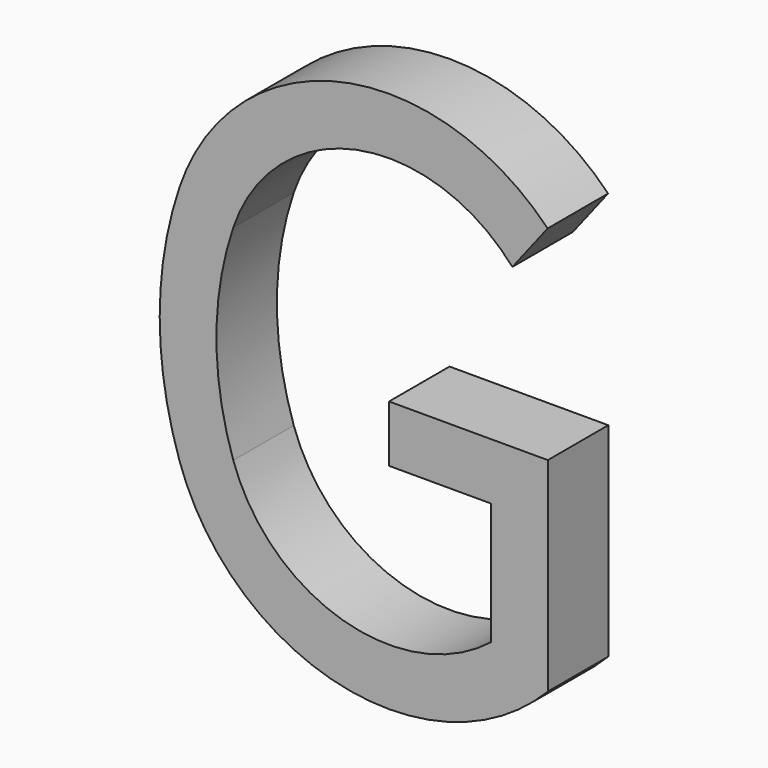
from build123d import *

# Parameters (mm, degrees)
F1_DEPTH = 1.524
F3_DEPTH = 1.524
F4_DEPTH = 25.4


with BuildPart() as f1:
    # F0 (on Front) → F1 (new body)
    with BuildSketch(Plane.XZ):
        with BuildLine():
            ThreePointArc((-16.676399, 24.306558), (-12.453754, 21.27727), (-8.231109, 24.306558))
            ThreePointArc((-8.231109, 24.306558), (-7.830954, 26.73827), (-8.231109, 29.169981))
            ThreePointArc((-8.231109, 29.169981), (-12.453754, 32.19927), (-16.676399, 29.169981))
            ThreePointArc((-16.676399, 29.169981), (-17.076554, 26.73827), (-16.676399, 24.306558))
        make_face()
        with BuildLine():
            ThreePointArc((-15.593669, 28.803722), (-12.453754, 31.05627), (-9.313838, 28.803722))
            ThreePointArc((-9.313838, 28.803722), (-8.973954, 26.73827), (-9.313838, 24.672818))
            ThreePointArc((-9.313838, 24.672818), (-12.453754, 22.42027), (-15.593669, 24.672818))
            ThreePointArc((-15.593669, 24.672818), (-15.933554, 26.73827), (-15.593669, 28.803722))
        make_face(mode=Mode.SUBTRACT)
    extrude(amount=F1_DEPTH)

    # F2 (on face) → F3 (join)
    with BuildSketch(Plane.XZ.offset(1.524)):
        with BuildLine():
            ThreePointArc((-9.313838, 24.672818), (-9.282874, 24.76672), (-9.253354, 24.861087))
            Line((-9.253354, 24.861087), (-9.253354, 26.73827))
            Line((-9.253354, 26.73827), (-12.453754, 26.73827))
            Line((-12.453754, 26.73827), (-12.453754, 25.59527))
            Line((-12.453754, 25.59527), (-10.396354, 25.59527))
            Line((-10.396354, 25.59527), (-10.396354, 23.136058))
            ThreePointArc((-10.396354, 23.136058), (-9.743877, 23.826094), (-9.313838, 24.672818))
        make_face()
    extrude(amount=-F3_DEPTH)

    # F2 (on face) → F4 (cut)
    with BuildSketch(Plane.XZ.offset(1.524)):
        with BuildLine():
            Line((-9.253354, 24.861087), (-9.253354, 22.631983))
            ThreePointArc((-9.253354, 22.631983), (-8.64896, 23.412333), (-8.231109, 24.306558))
            ThreePointArc((-8.231109, 24.306558), (-7.830954, 26.73827), (-8.231109, 29.169981))
            ThreePointArc((-8.231109, 29.169981), (-8.650336, 30.066457), (-9.257028, 30.848342))
            Line((-9.257028, 30.848342), (-9.967955, 29.934294))
            ThreePointArc((-9.967955, 29.934294), (-9.584657, 29.401546), (-9.313838, 28.803722))
            ThreePointArc((-9.313838, 28.803722), (-8.974712, 26.837143), (-9.253354, 24.861087))
        make_face()
    extrude(amount=-F4_DEPTH, mode=Mode.SUBTRACT)


solid = f1.part
